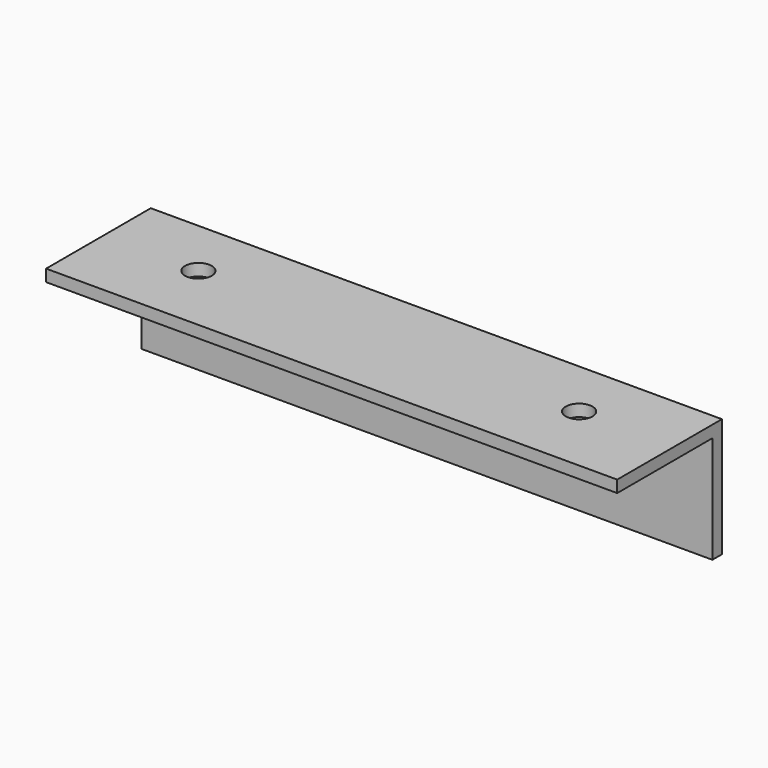
from build123d import *

# Parameters (mm, degrees)
F0_W      = 76.2
F0_H      = 15.875
F1_DEPTH  = 0.79375
F2_R      = 1.7859375
F3_DEPTH  = 1.5885
F4_R      = 1.7859375
F5_DEPTH  = 1.5885
F6_W      = 76.2
F6_H      = 1.5875
F7_DEPTH  = 15.875
F8_R      = 1.7859375
F9_DEPTH  = 1.5885
F10_R     = 1.7859375
F11_DEPTH = 1.5885


with BuildPart() as f1:
    # F0 (on Front) → F1 (new body, symmetric)
    with BuildSketch(Plane.XZ):
        Rectangle(F0_W, F0_H)
    extrude(amount=F1_DEPTH, both=True)

    # F2 (on face) → F3 (cut, through all)
    with BuildSketch(Plane.XZ.offset(0.79375)):
        with Locations((-19.05, 0)):
            Circle(F2_R)
    extrude(amount=-F3_DEPTH, mode=Mode.SUBTRACT)

    # F4 (on face) → F5 (cut, through all)
    with BuildSketch(Plane.XZ.offset(0.79375)):
        with Locations((19.05, 0)):
            Circle(F4_R)
    extrude(amount=-F5_DEPTH, mode=Mode.SUBTRACT)

    # F6 (on face) → F7 (join)
    with BuildSketch(Plane.XZ.offset(0.79375)):
        with Locations((0, 7.14375)):
            Rectangle(F6_W, F6_H)
    extrude(amount=F7_DEPTH)

    # F8 (on face) → F9 (cut, through all)
    with BuildSketch(Plane(origin=(0, 0, 6.35), x_dir=(1, 0, 0), z_dir=(0, 0, -1))):
        with Locations((-25.4, 7.14375)):
            Circle(F8_R)
    extrude(amount=-F9_DEPTH, mode=Mode.SUBTRACT)

    # F10 (on face) → F11 (cut, through all)
    with BuildSketch(Plane(origin=(0, 0, 6.35), x_dir=(1, 0, 0), z_dir=(0, 0, -1))):
        with Locations((25.4, 7.14375)):
            Circle(F10_R)
    extrude(amount=-F11_DEPTH, mode=Mode.SUBTRACT)


solid = f1.part
